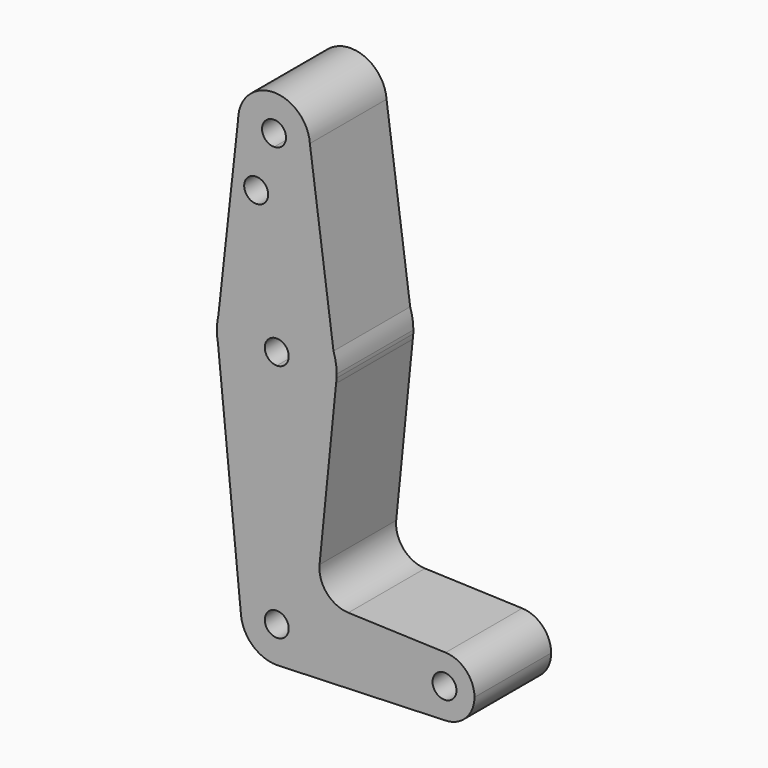
from build123d import *

# Parameters (mm, degrees)
F0_R     = 3.175
F1_DEPTH = 25.4
F2_DEPTH = 25.4


with BuildPart() as f1:
    # F0 (on Front) → F1 (new body)
    with BuildSketch(Plane.XZ):
        with BuildLine():
            ThreePointArc((-21.8341132764, 59.9675301176), (-18.9958831699, 53.1842614814), (-12.1726469476, 50.4435077562))
            ThreePointArc((-12.1726469476, 50.4435077562), (-5.5258446402, 53.2807602241), (-2.7841132764, 59.9675301176))
            ThreePointArc((-2.7841132764, 59.9675301176), (-2.7904513825, 60.3149502538), (-2.8094572661, 60.6619080307))
            ThreePointArc((-2.8094572661, 60.6619080307), (-12.6565334125, 69.4861920114), (-21.8341132764, 59.9675301176))
        make_face()
        with BuildLine():
            ThreePointArc((-9.1341132764, 59.9675301176), (-10.048023731, 57.7386068198), (-12.2636245001, 56.7928559971))
            ThreePointArc((-12.2636245001, 56.7928559971), (-14.5702028218, 62.1964534155), (-9.1341132764, 59.9675301176))
        make_face(mode=Mode.SUBTRACT)
        with BuildLine():
            ThreePointArc((-2.7841132764, 59.9675301176), (-5.5258446402, 53.2807602241), (-12.1726469476, 50.4435077562))
            Line((-12.1726469476, 50.4435077562), (-11.8086620269, 25.04090072))
            ThreePointArc((-11.8086620269, 25.04090072), (-2.4270394488, 22.1373657907), (3.4513160797, 14.2703273667))
            Line((3.4513160797, 14.2703273667), (-2.8094572661, 60.6619080307))
            ThreePointArc((-2.8094572661, 60.6619080307), (-2.7904513825, 60.3149502538), (-2.7841132764, 59.9675301176))
        make_face()
        with BuildLine():
            Line((-11.8086620269, 25.04090072), (-12.1726469476, 50.4435077562))
            ThreePointArc((-12.1726469476, 50.4435077562), (-18.9958831699, 53.1842614814), (-21.8341132764, 59.9675301176))
            Line((-21.8341132764, 59.9675301176), (-27.0492958066, 12.7388321873))
            ThreePointArc((-27.0492958066, 12.7388321873), (-21.5523049303, 21.5203861976), (-11.8086620269, 25.04090072))
        make_face()
        with Locations((-17.0401986688, 45.1469011605)):
            Circle(F0_R, mode=Mode.SUBTRACT)
        with BuildLine():
            ThreePointArc((3.4513160797, 14.2703273667), (-2.4270394488, 22.1373657907), (-11.8086620269, 25.04090072))
            Line((-11.8086620269, 25.04090072), (-11.6267069219, 12.3422042381))
            ThreePointArc((-11.6267069219, 12.3422042381), (-9.3522948478, 11.428619663), (-8.4062181456, 9.1675301176))
            ThreePointArc((-8.4062181456, 9.1675301176), (-9.3361541153, 6.9224660873), (-11.5812181456, 5.9925301176))
            Line((-11.5812181456, 5.9925301176), (-11.5812181456, -6.7074698824))
            ThreePointArc((-11.5812181456, -6.7074698824), (-1.1742480118, -2.8204053858), (4.1363360906, 6.9372579749))
            Line((4.1363360906, 6.9372579749), (4.2661999847, 8.232135226))
            Line((4.2661999847, 8.232135226), (3.4513160797, 14.2703273667))
        make_face()
        with BuildLine():
            Line((-11.6267069219, 12.3422042381), (-11.8086620269, 25.04090072))
            ThreePointArc((-11.8086620269, 25.04090072), (-21.5523049303, 21.5203861976), (-27.0492958066, 12.7388321873))
            Line((-27.0492958066, 12.7388321873), (-27.4558348468, 9.0572142544))
            Line((-27.4558348468, 9.0572142544), (-27.1667644493, 6.1498536246))
            ThreePointArc((-27.1667644493, 6.1498536246), (-21.6834458869, -3.0783107953), (-11.5812181456, -6.7074698824))
            Line((-11.5812181456, -6.7074698824), (-11.5812181456, 5.9925301176))
            ThreePointArc((-11.5812181456, 5.9925301176), (-14.7561366747, 9.1447851458), (-11.6267069219, 12.3422042381))
        make_face()
        with BuildLine():
            ThreePointArc((4.2937818544, 9.1675301176), (4.0817494185, 11.7534674886), (3.4513160797, 14.2703273667))
            Line((3.4513160797, 14.2703273667), (4.2661999847, 8.232135226))
            ThreePointArc((4.2661999847, 8.232135226), (4.2868848888, 8.6996293902), (4.2937818544, 9.1675301176))
        make_face()
        with BuildLine():
            Line((-27.4558348468, 9.0572142544), (-27.0492958066, 12.7388321873))
            ThreePointArc((-27.0492958066, 12.7388321873), (-27.3603087443, 10.9099206818), (-27.4558348468, 9.0572142544))
        make_face()
        with BuildLine():
            ThreePointArc((4.1363360906, 6.9372579749), (4.2145422634, 7.5833653216), (4.2661999847, 8.232135226))
            Line((4.2661999847, 8.232135226), (4.1363360906, 6.9372579749))
        make_face()
        with BuildLine():
            Line((-27.1667644493, 6.1498536246), (-27.4558348468, 9.0572142544))
            ThreePointArc((-27.4558348468, 9.0572142544), (-27.3783270751, 7.5968695977), (-27.1667644493, 6.1498536246))
        make_face()
        with BuildLine():
            ThreePointArc((4.1363360906, 6.9372579749), (-1.1742480118, -2.8204053858), (-11.5812181456, -6.7074698824))
            Line((-11.5812181456, -6.7074698824), (-11.5812181456, -44.8074698824))
            ThreePointArc((-11.5812181456, -44.8074698824), (-4.8460260548, -47.5972777916), (-2.0562181456, -54.3324698824))
            Line((-2.0562181456, -54.3324698824), (24.9312818544, -54.3324698824))
            ThreePointArc((24.9312818544, -54.3324698824), (27.3568713697, -48.6208370985), (33.1511871289, -46.3999952678))
            Line((33.1511871289, -46.3999952678), (7.3831695342, -45.4826240265))
            ThreePointArc((7.3831695342, -45.4826240265), (1.67659756, -42.7654990677), (-0.2444901556, -36.7441077228))
            Line((-0.2444901556, -36.7441077228), (4.1363360906, 6.9372579749))
        make_face()
        with BuildLine():
            Line((-11.5812181456, -44.8074698824), (-11.5812181456, -6.7074698824))
            ThreePointArc((-11.5812181456, -6.7074698824), (-21.6834458869, -3.0783107953), (-27.1667644493, 6.1498536246))
            Line((-27.1667644493, 6.1498536246), (-21.0594835033, -55.2748661943))
            ThreePointArc((-21.0594835033, -55.2748661943), (-18.6417404305, -47.9391413233), (-11.5812181456, -44.8074698824))
        make_face()
        with BuildLine():
            Line((-11.5812181456, -51.1574698824), (-11.5812181456, -44.8074698824))
            ThreePointArc((-11.5812181456, -44.8074698824), (-18.6417404305, -47.9391413233), (-21.0594835033, -55.2748661943))
            ThreePointArc((-21.0594835033, -55.2748661943), (-17.9745467047, -61.3929921673), (-11.5812181456, -63.8574698824))
            Line((-11.5812181456, -63.8574698824), (-10.9038745977, -63.8333556684))
            ThreePointArc((-10.9038745977, -63.8333556684), (-4.6106614141, -60.8237689706), (-2.0562181456, -54.3324698824))
            Line((-2.0562181456, -54.3324698824), (-8.4062181456, -54.3324698824))
            ThreePointArc((-8.4062181456, -54.3324698824), (-13.8262821759, -56.5775339127), (-11.5812181456, -51.1574698824))
        make_face()
        with BuildLine():
            Line((24.9312818544, -54.3324698824), (-2.0562181456, -54.3324698824))
            ThreePointArc((-2.0562181456, -54.3324698824), (-4.6106614141, -60.8237689706), (-10.9038745977, -63.8333556684))
            Line((-10.9038745977, -63.8333556684), (33.1511871289, -62.264944497))
            ThreePointArc((33.1511871289, -62.264944497), (27.3568713697, -60.0441026663), (24.9312818544, -54.3324698824))
        make_face()
        with BuildLine():
            Line((-10.9038745977, -63.8333556684), (-11.5812181456, -63.8574698824))
            ThreePointArc((-11.5812181456, -63.8574698824), (-11.2423318161, -63.8514394199), (-10.9038745977, -63.8333556684))
        make_face()
        with BuildLine():
            ThreePointArc((33.1511871289, -46.3999952678), (27.3568713697, -48.6208370985), (24.9312818544, -54.3324698824))
            ThreePointArc((24.9312818544, -54.3324698824), (27.3568713697, -60.0441026663), (33.1511871289, -62.264944497))
            ThreePointArc((33.1511871289, -62.264944497), (38.5804146383, -59.8443803671), (40.8062818544, -54.3324698824))
            ThreePointArc((40.8062818544, -54.3324698824), (38.5804146383, -48.8205593977), (33.1511871289, -46.3999952678))
        make_face()
        with BuildLine():
            ThreePointArc((36.0437818544, -54.3324698824), (32.8687818544, -57.5074698824), (29.6937818544, -54.3324698824))
            ThreePointArc((29.6937818544, -54.3324698824), (32.8687818544, -51.1574698824), (36.0437818544, -54.3324698824))
        make_face(mode=Mode.SUBTRACT)
    extrude(amount=F1_DEPTH)

    # F0 (on Front) → F2 (join)
    with BuildSketch(Plane.XZ):
        with BuildLine():
            ThreePointArc((-2.0562181456, -54.3324698824), (-4.8460260548, -47.5972777916), (-11.5812181456, -44.8074698824))
            Line((-11.5812181456, -44.8074698824), (-11.5812181456, -51.1574698824))
            ThreePointArc((-11.5812181456, -51.1574698824), (-9.3361541153, -52.0874058521), (-8.4062181456, -54.3324698824))
            Line((-8.4062181456, -54.3324698824), (-2.0562181456, -54.3324698824))
        make_face()
    extrude(amount=F2_DEPTH)


solid = f1.part
